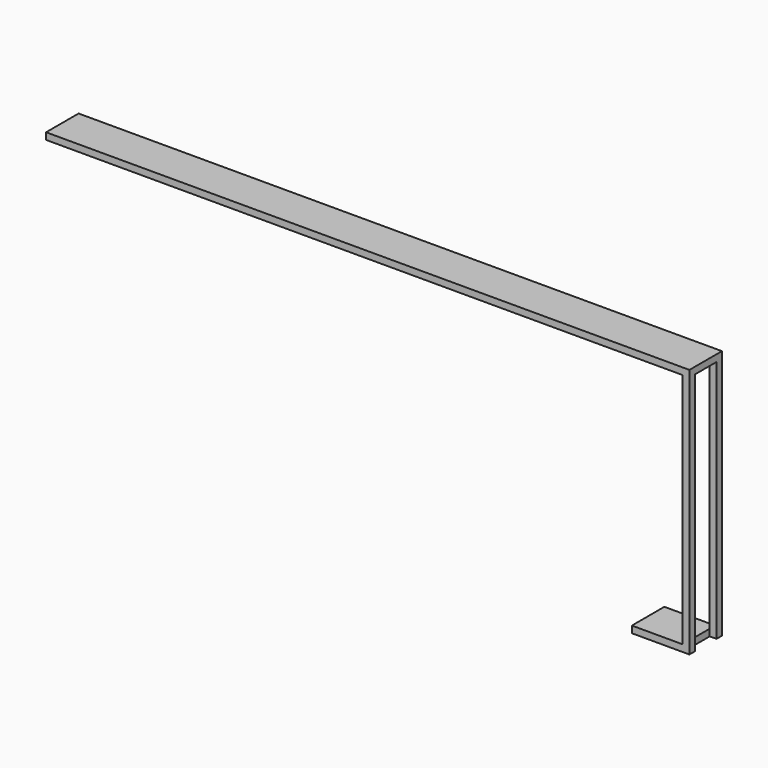
from build123d import *

# Parameters (mm, degrees)
F0_W     = 1900
F0_H     = 120
F1_DEPTH = 20
F2_W     = 20
F2_H     = 20
F3_DEPTH = 720
F4_W     = 150
F4_H     = 20
F5_DEPTH = 120


with BuildPart() as f1:
    # F0 (on Top) → F1 (new body)
    with BuildSketch(Plane.XY):
        with Locations((950, 60)):
            Rectangle(F0_W, F0_H)
    extrude(amount=-F1_DEPTH)

    # F2 (on face) → F3 (join)
    with BuildSketch(Plane(origin=(0, 0, -20), x_dir=(1, 0, 0), z_dir=(0, 0, -1))):
        with Locations((1890, -110)):
            Rectangle(F2_W, F2_H)
        with Locations((1890, -10)):
            Rectangle(F2_W, F2_H)
    extrude(amount=F3_DEPTH)

    # F4 (on face) → F5 (join)
    with BuildSketch(Plane(origin=(0, 120, 0), x_dir=(-1, 0, 0), z_dir=(0, 1, 0))):
        with Locations((-1805, -730)):
            Rectangle(F4_W, F4_H)
    extrude(amount=-F5_DEPTH)


solid = f1.part
